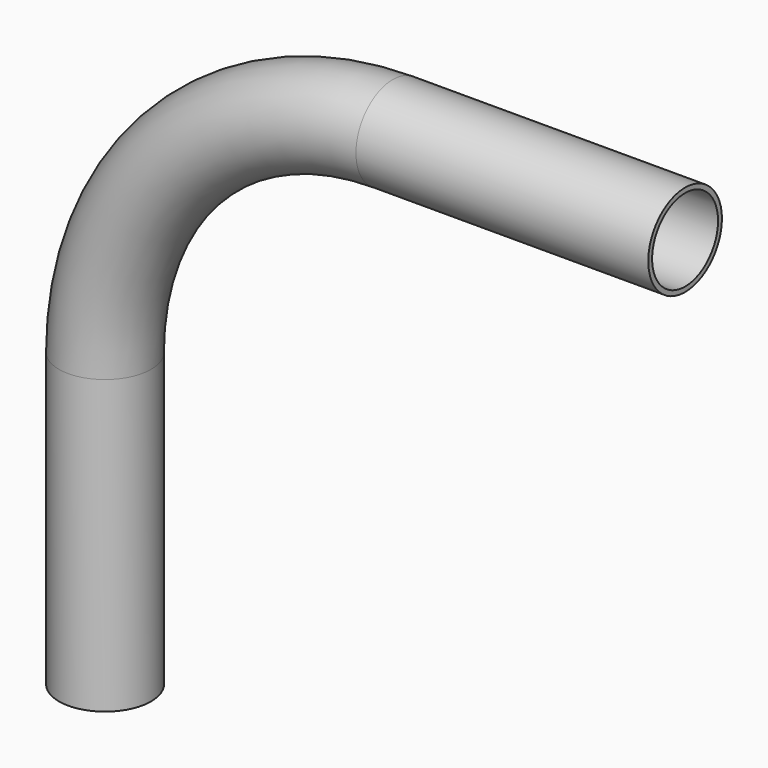
from build123d import *

# Parameters (mm, degrees)
F2_R   = 9.525
F2_R_2 = 8.525


with BuildPart() as f3:
    # F3: sweep along a path in F0
    with BuildLine(Plane.XZ) as f3_path:
        Line((120, 120), (59.525, 120))
        ThreePointArc((59.525, 120), (17.4344688499, 102.5655311501), (0, 60.475))
        Line((0, 60.475), (0, 0))
    # F2 (on plane+point) → F3 (sweep)
    with BuildSketch(Plane.YZ.offset(120)):
        with Locations((0, 120)):
            Circle(F2_R)
        with Locations((0, 120)):
            Circle(F2_R_2, mode=Mode.SUBTRACT)
    sweep(path=f3_path.line)


solid = f3.part
